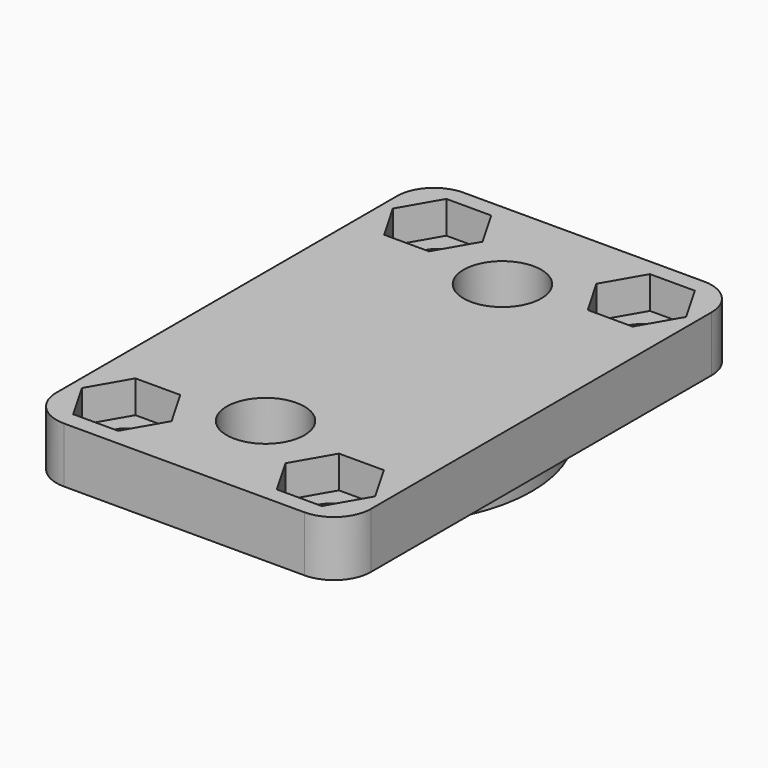
from build123d import *

# Parameters (mm, degrees)
PAD004_DEPTH         = 3
SKETCH049_R          = 1.2
POCKET025_DEPTH      = 3.001
PAD003_DEPTH         = 1
SKETCH048_R          = 1.2
POCKET023_DEPTH      = 4.001
POCKET023_DEPTH_BACK = 0.001
POCKET024_DEPTH      = 1.75
SKETCH052_R          = 2.1
POCKET026_DEPTH      = 2.4


with BuildPart() as part:
    # Sketch047 → Pad004 (new body)
    with BuildSketch(Plane.XY):
        with BuildLine():
            Line((-6.5, 0), (6.5, 0))
            ThreePointArc((6.5, 0), (7.914214, 0.585786), (8.5, 2))
            Line((8.5, 2), (8.5, 25))
            ThreePointArc((8.5, 25), (7.914214, 26.414214), (6.5, 27))
            Line((6.5, 27), (-6.5, 27))
            ThreePointArc((-6.5, 27), (-7.914214, 26.414214), (-8.5, 25))
            Line((-8.5, 25), (-8.5, 2))
            ThreePointArc((-8.5, 2), (-7.914214, 0.585786), (-6.5, 0))
        make_face()
    extrude(amount=-PAD004_DEPTH)

    # Sketch049 → Pocket025 (cut, through all)
    with BuildSketch(Plane.XY):
        with Locations((-5.5, 24)):
            Circle(SKETCH049_R)
        with Locations((5.5, 24)):
            Circle(SKETCH049_R)
        with Locations((5.5, 3)):
            Circle(SKETCH049_R)
        with Locations((-5.5, 3)):
            Circle(SKETCH049_R)
    extrude(amount=-POCKET025_DEPTH, mode=Mode.SUBTRACT)

    # Sketch051 (on DatumPlane) → Pad003 (join)
    with BuildSketch(Plane.XY.offset(-3)):
        with BuildLine():
            ThreePointArc((-3.962007, 20.45), (-8, 13.5), (-3.962007, 6.55))
            ThreePointArc((-2.971505, 5.0875), (-3.296554, 5.934022), (-3.962007, 6.55))
            ThreePointArc((-2.971505, 5.0875), (0, 2.5), (2.971505, 5.0875))
            ThreePointArc((3.962007, 6.55), (3.296554, 5.934022), (2.971505, 5.0875))
            ThreePointArc((3.962007, 6.55), (8, 13.5), (3.962007, 20.45))
            ThreePointArc((2.971505, 21.9125), (3.296554, 21.065978), (3.962007, 20.45))
            ThreePointArc((2.971505, 21.9125), (0, 24.5), (-2.971505, 21.9125))
            ThreePointArc((-3.962007, 20.45), (-3.296554, 21.065978), (-2.971505, 21.9125))
        make_face()
    extrude(amount=-PAD003_DEPTH)

    # Sketch048 → Pocket023 (cut, two sides)
    with BuildSketch(Plane.XY) as pocket023_sk:
        with Locations((0, 5.5)):
            Circle(SKETCH048_R)
        with Locations((0, 21.5)):
            Circle(SKETCH048_R)
    extrude(amount=-POCKET023_DEPTH, mode=Mode.SUBTRACT)
    extrude(pocket023_sk.sketch, amount=POCKET023_DEPTH_BACK, mode=Mode.SUBTRACT)

    # Sketch050 → Pocket024 (cut)
    with BuildSketch(Plane.XY):
        Polygon((4.287564, 0.9), (6.712436, 0.9), (7.924871, 3), (6.712436, 5.1), (4.287564, 5.1), (3.075129, 3), align=None)
        Polygon((6.712436, 26.1), (4.287564, 26.1), (3.075129, 24), (4.287564, 21.9), (6.712436, 21.9), (7.924871, 24), align=None)
        Polygon((-4.287564, 21.9), (-3.075129, 24), (-4.287564, 26.1), (-6.712436, 26.1), (-7.924871, 24), (-6.712436, 21.9), align=None)
        Polygon((-4.287564, 0.9), (-3.075129, 3), (-4.287564, 5.1), (-6.712436, 5.1), (-7.924871, 3), (-6.712436, 0.9), align=None)
    extrude(amount=-POCKET024_DEPTH, mode=Mode.SUBTRACT)

    # Sketch052 → Pocket026 (cut)
    with BuildSketch(Plane.XY):
        with Locations((0, 21.5)):
            Circle(SKETCH052_R)
        with Locations((0, 5.5)):
            Circle(SKETCH052_R)
    extrude(amount=-POCKET026_DEPTH, mode=Mode.SUBTRACT)


solid = part.part
